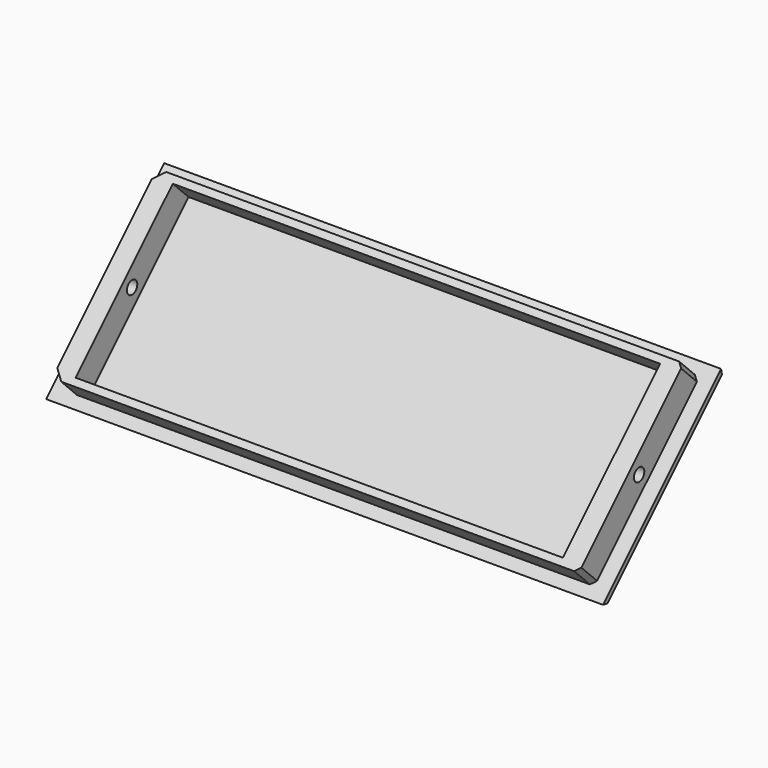
from build123d import *

# Parameters (mm, degrees)
SKETCH018_W             = 120
SKETCH018_H             = 45
PAD003_DEPTH            = 3
SKETCH019_W             = 113.5
SKETCH019_H             = 40
PAD004_DEPTH            = 6
SKETCH020_R             = 1.4
POCKET008_DEPTH         = 116.751
POCKET012_DEPTH         = 376.952357
CHAMFER008_SIZE         = 2
SKETCH021_W             = 105
SKETCH021_H             = 37
POCKET013_DEPTH         = 6
CHAMFER009_SIZE         = 2
CHAMFER010_SIZE         = 1
CHAMFER011_SIZE         = 1
CHAMFER012_SIZE         = 2
BODY001_PLACEMENT_ANGLE = 45


with BuildPart() as part:
    # Sketch018 → Pad003 (new body)
    with BuildSketch(Plane.XZ):
        Rectangle(SKETCH018_W, SKETCH018_H)
    extrude(amount=PAD003_DEPTH)

    # Sketch019 (on Face6 of Pad003) → Pad004 (join)
    with BuildSketch(Plane.XZ.offset(3)):
        Rectangle(SKETCH019_W, SKETCH019_H)
    extrude(amount=PAD004_DEPTH)

    # Sketch020 (on Face8 of Pad004) → Pocket008 (cut, through all)
    with BuildSketch(Plane(origin=(56.75, 0, 0), x_dir=(0, 0, 1), z_dir=(1, 0, 0))):
        with Locations((0, 6)):
            Circle(SKETCH020_R)
    extrude(amount=-POCKET008_DEPTH, mode=Mode.SUBTRACT)

    # Sketch024 (on Face3 of Pocket008) → Pocket012 (cut, through all)
    with BuildSketch(Plane(origin=(60, 0, 0), x_dir=(0, 0, 1), z_dir=(1, 0, 0))):
        Polygon((-22.5, 3), (-17.875456, -3.604533), (-35.516254, -3.604533), align=None)
    pocket012 = extrude(amount=-POCKET012_DEPTH, mode=Mode.SUBTRACT)

    # Mirrored: Pocket012 across Sketch024 V_Axis
    add(pocket012.mirror(Plane(origin=(60, 0, 0), x_dir=(1, 0, 0), z_dir=(0, 0, 1))), mode=Mode.SUBTRACT)

    # Chamfer008
    chamfer008_edges = [part.edges().sort_by_distance(p)[0] for p in [
        (60, 0, 0),
        (-60, 0, 0),
    ]]
    chamfer(chamfer008_edges, length=CHAMFER008_SIZE)

    # Sketch021 → Pocket013 (cut)
    with BuildSketch(Plane.XZ.offset(9)):
        Rectangle(SKETCH021_W, SKETCH021_H)
    extrude(amount=-POCKET013_DEPTH, mode=Mode.SUBTRACT)

    # Chamfer009
    chamfer009_edges = [part.edges().sort_by_distance(p)[0] for p in [
        (-56.75, -6, -20),
    ]]
    chamfer(chamfer009_edges, length=CHAMFER009_SIZE)

    # Chamfer010
    chamfer010_edges = [part.edges().sort_by_distance(p)[0] for p in [
        (56.75, -6, -20),
    ]]
    chamfer(chamfer010_edges, length=CHAMFER010_SIZE)

    # Chamfer011
    chamfer011_edges = [part.edges().sort_by_distance(p)[0] for p in [
        (56.75, -6, 20),
    ]]
    chamfer(chamfer011_edges, length=CHAMFER011_SIZE)

    # Chamfer012
    chamfer012_edges = [part.edges().sort_by_distance(p)[0] for p in [
        (-56.75, -6, 20),
    ]]
    chamfer(chamfer012_edges, length=CHAMFER012_SIZE)


with BuildPart() as part_1:
    # Body001 placement: moved
    add(part.part.moved(Location((7, 18.750956, -18.057315))).rotate(Axis((7, 18.750956, -18.057315), (-1, 0, 0)), BODY001_PLACEMENT_ANGLE))


solid = part_1.part
